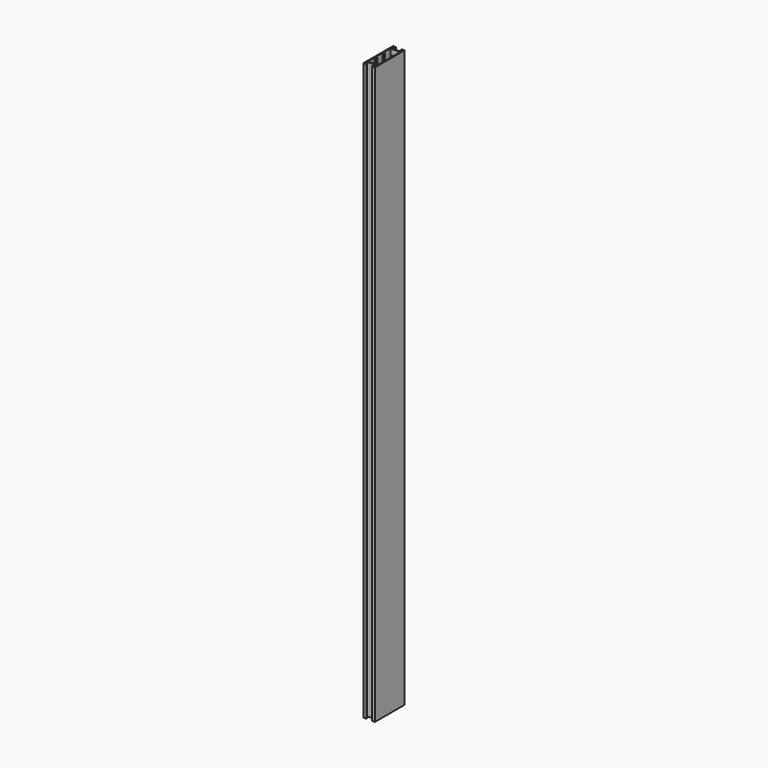
from build123d import *

# Parameters (mm, degrees)
F1_DEPTH = 1000


with BuildPart() as f1:
    # F0 (on Top) → F1 (new body)
    with BuildSketch(Plane.XY):
        Polygon((-5, 30.5), (-5, 32), (-10, 32), (-10, -32), (-5, -32), (-5, -30.5), (-8.5, -30.5), (-8.5, -26), (8.5, -26), (8.5, -30.5), (5, -30.5), (5, -32), (10, -32), (10, 32), (5, 32), (5, 30.5), (8.5, 30.5), (8.5, 26), (-8.5, 26), (-8.5, 30.5), align=None)
        Polygon((-8.5, 9.5), (-8.5, 24.5), (8.5, 24.5), (8.5, 9.5), (5.5, 9.5), (5.5, 7.5), (8.5, 7.5), (8.5, -7.5), (5.5, -7.5), (5.5, -9.5), (8.5, -9.5), (8.5, -24.5), (-8.5, -24.5), (-8.5, -9.5), (-5.5, -9.5), (-5.5, -7.5), (-8.5, -7.5), (-8.5, 7.5), (-5.5, 7.5), (-5.5, 9.5), align=None, mode=Mode.SUBTRACT)
    extrude(amount=F1_DEPTH)


solid = f1.part
